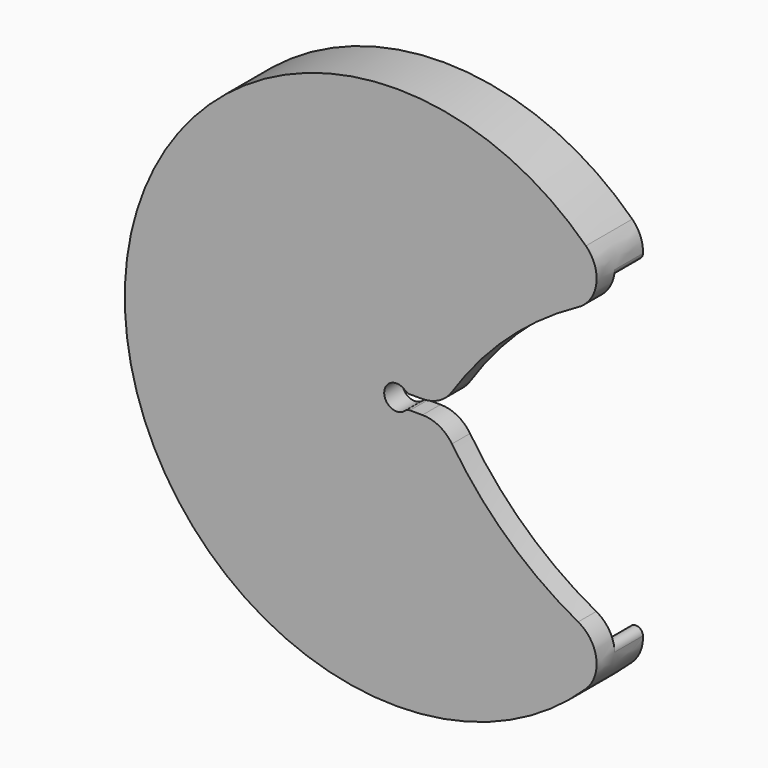
from build123d import *

# Parameters (mm, degrees)
F0_R     = 38.45
F0_R_2   = 35.25
F1_DEPTH = 5
F2_R     = 38.45
F3_DEPTH = 3.2
F5_DEPTH = 25
F6_R     = 5
F7_R     = 1


with BuildPart() as f1:
    # F0 (on Front) → F1 (new body)
    with BuildSketch(Plane.XZ):
        Circle(F0_R)
        Circle(F0_R_2, mode=Mode.SUBTRACT)
    extrude(amount=F1_DEPTH)

    # F2 (on face) → F3 (join)
    with BuildSketch(Plane.XZ.offset(5)):
        Circle(F2_R)
    extrude(amount=F3_DEPTH)

    # F4 (on face) → F5 (cut)
    with BuildSketch(Plane.XZ.offset(8.2)):
        with BuildLine():
            Line((6.4361406616, 1), (1.4361406616, 1))
            ThreePointArc((1.4361406616, 1), (-1.75, 0), (1.4361406616, -1))
            Line((1.4361406616, -1), (6.4361406616, -1))
            ThreePointArc((6.4361406616, -1), (21.2635468628, -16.8975326234), (41.4361406616, -25))
            Line((41.4361406616, -25), (41.4361406616, 25))
            ThreePointArc((41.4361406616, 25), (21.2635468628, 16.8975326234), (6.4361406616, 1))
        make_face()
    extrude(amount=-F5_DEPTH, mode=Mode.SUBTRACT)

    # F6
    f6_edges = [f1.edges().sort_by_distance(p)[0] for p in [
        (31.364819, -4.1, 22.240743),
        (31.364819, -4.1, -22.240743),
        (6.436141, -6.6, -1),
        (6.436141, -6.6, 1),
    ]]
    fillet(f6_edges, radius=F6_R)

    # F7
    f7_edges = [f1.edges().sort_by_distance(p)[0] for p in [
        (1.436141, -6.6, 1),
        (1.436141, -6.6, -1),
        (27.756441, -2.5, 21.72884),
        (27.756441, -2.5, -21.72884),
    ]]
    fillet(f7_edges, radius=F7_R)


solid = f1.part
